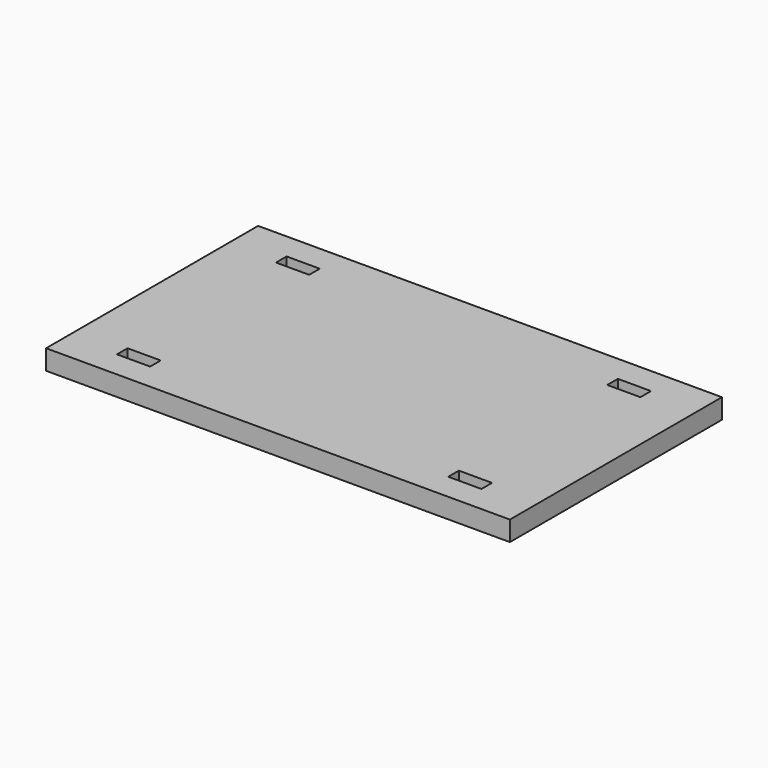
from build123d import *

# Parameters (mm, degrees)
SKETCH_W   = 70
SKETCH_H   = 40
SKETCH_W_2 = 5
SKETCH_H_2 = 2
PAD_DEPTH  = 3


with BuildPart() as part:
    # Sketch → Pad (new body)
    with BuildSketch(Plane.XY):
        Rectangle(SKETCH_W, SKETCH_H)
        with Locations((-25, 15)):
            Rectangle(SKETCH_W_2, SKETCH_H_2, mode=Mode.SUBTRACT)
        with Locations((25, 15)):
            Rectangle(SKETCH_W_2, SKETCH_H_2, mode=Mode.SUBTRACT)
        with Locations((25, -15)):
            Rectangle(SKETCH_W_2, SKETCH_H_2, mode=Mode.SUBTRACT)
        with Locations((-25, -15)):
            Rectangle(SKETCH_W_2, SKETCH_H_2, mode=Mode.SUBTRACT)
    extrude(amount=PAD_DEPTH)


solid = part.part
